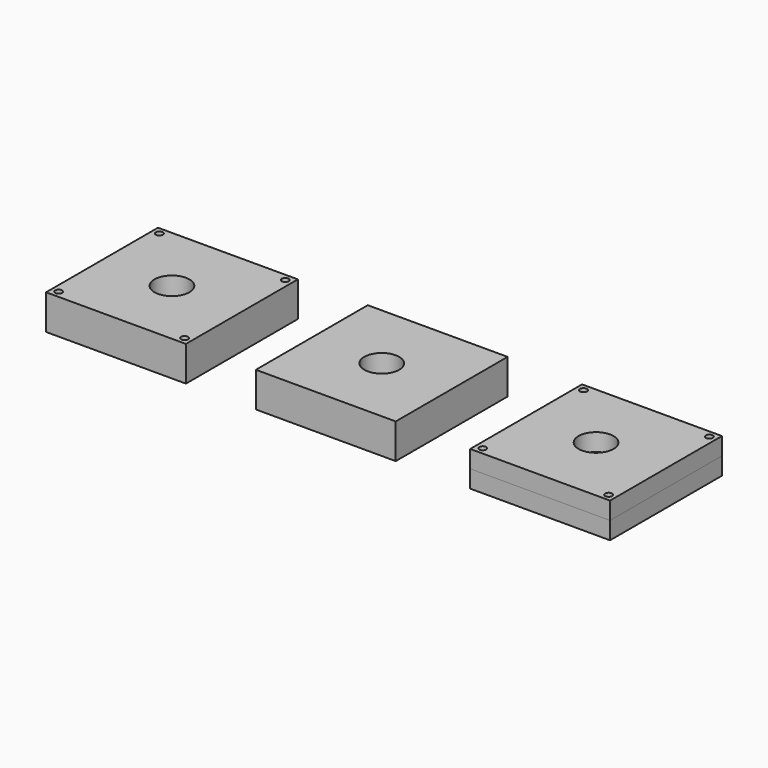
from build123d import *

# Parameters (mm, degrees)
F1_W     = 100
F1_H     = 100
F1_R     = 2.5
F1_R_2   = 12.5
F3_DEPTH = 25
F2_W     = 100
F2_H     = 100
F2_R     = 2.5
F2_R_2   = 12.5
F4_DEPTH = 12.5
F5_DEPTH = 12.5
F0_W     = 100
F0_H     = 100
F0_R     = 2.5
F0_R_2   = 12.5
F6_DEPTH = 25
F7_DEPTH = 25.001
F8_DEPTH = 10
F9_DEPTH = 25.001


with BuildPart() as f3:
    # F1 (on Top) → F3 (new body)
    with BuildSketch(Plane.XY):
        with Locations((150, 0)):
            Rectangle(F1_W, F1_H)
        with Locations((105, -45)):
            Circle(F1_R, mode=Mode.SUBTRACT)
        with Locations((195, -45)):
            Circle(F1_R, mode=Mode.SUBTRACT)
        with Locations((105, 45)):
            Circle(F1_R, mode=Mode.SUBTRACT)
        with Locations((150, 0)):
            Circle(F1_R_2, mode=Mode.SUBTRACT)
        with Locations((195, 45)):
            Circle(F1_R, mode=Mode.SUBTRACT)
        with Locations((150, 0)):
            Circle(F1_R_2)
        with Locations((195, -45)):
            Circle(F1_R)
        with Locations((195, 45)):
            Circle(F1_R)
        with Locations((105, 45)):
            Circle(F1_R)
        with Locations((105, -45)):
            Circle(F1_R)
    extrude(amount=F3_DEPTH)

    # F1 (on Top) → F7 (cut, through all)
    with BuildSketch(Plane.XY):
        with Locations((150, 0)):
            Circle(F1_R_2)
    extrude(amount=F7_DEPTH, mode=Mode.SUBTRACT)

    # F1 (on Top) → F8 (cut)
    with BuildSketch(Plane.XY):
        with Locations((195, -45)):
            Circle(F1_R)
        with Locations((105, -45)):
            Circle(F1_R)
        with Locations((105, 45)):
            Circle(F1_R)
        with Locations((195, 45)):
            Circle(F1_R)
    extrude(amount=F8_DEPTH, mode=Mode.SUBTRACT)


with BuildPart() as f4:
    # F2 (on Top) → F4 (new body)
    with BuildSketch(Plane.XY):
        with Locations((303.2371522859, 0)):
            Rectangle(F2_W, F2_H)
        with Locations((258.2371522859, -45)):
            Circle(F2_R, mode=Mode.SUBTRACT)
        with Locations((348.2371522859, -45)):
            Circle(F2_R, mode=Mode.SUBTRACT)
        with Locations((303.2371522859, 0)):
            Circle(F2_R_2, mode=Mode.SUBTRACT)
        with Locations((258.2371522859, 45)):
            Circle(F2_R, mode=Mode.SUBTRACT)
        with Locations((348.2371522859, 45)):
            Circle(F2_R, mode=Mode.SUBTRACT)
        with Locations((303.2371522859, 0)):
            Circle(F2_R_2)
        with Locations((348.2371522859, 45)):
            Circle(F2_R)
        with Locations((348.2371522859, -45)):
            Circle(F2_R)
        with Locations((258.2371522859, -45)):
            Circle(F2_R)
        with Locations((258.2371522859, 45)):
            Circle(F2_R)
    extrude(amount=F4_DEPTH)


with BuildPart() as f5:
    # F5 (new): a face of the model
    f5_faces = [f4.part.faces().sort_by_distance(p)[0] for p in [
        (303.2371522859, 0, 12.5),
    ]]
    extrude(f5_faces, amount=F5_DEPTH)

    # F2 (on Top) → F9 (cut, through all)
    with BuildSketch(Plane.XY):
        with Locations((303.2371522859, 0)):
            Circle(F2_R_2)
        with Locations((348.2371522859, -45)):
            Circle(F2_R)
        with Locations((258.2371522859, -45)):
            Circle(F2_R)
        with Locations((258.2371522859, 45)):
            Circle(F2_R)
        with Locations((348.2371522859, 45)):
            Circle(F2_R)
    extrude(amount=F9_DEPTH, mode=Mode.SUBTRACT)


with BuildPart() as f6:
    # F0 (on Top) → F6 (new body)
    with BuildSketch(Plane.XY):
        Rectangle(F0_W, F0_H)
        with Locations((-45, -45)):
            Circle(F0_R, mode=Mode.SUBTRACT)
        with Locations((45, -45)):
            Circle(F0_R, mode=Mode.SUBTRACT)
        with Locations((-45, 45)):
            Circle(F0_R, mode=Mode.SUBTRACT)
        Circle(F0_R_2, mode=Mode.SUBTRACT)
        with Locations((45, 45)):
            Circle(F0_R, mode=Mode.SUBTRACT)
    extrude(amount=F6_DEPTH)


solid = Compound([f3.part, f4.part, f5.part, f6.part])
